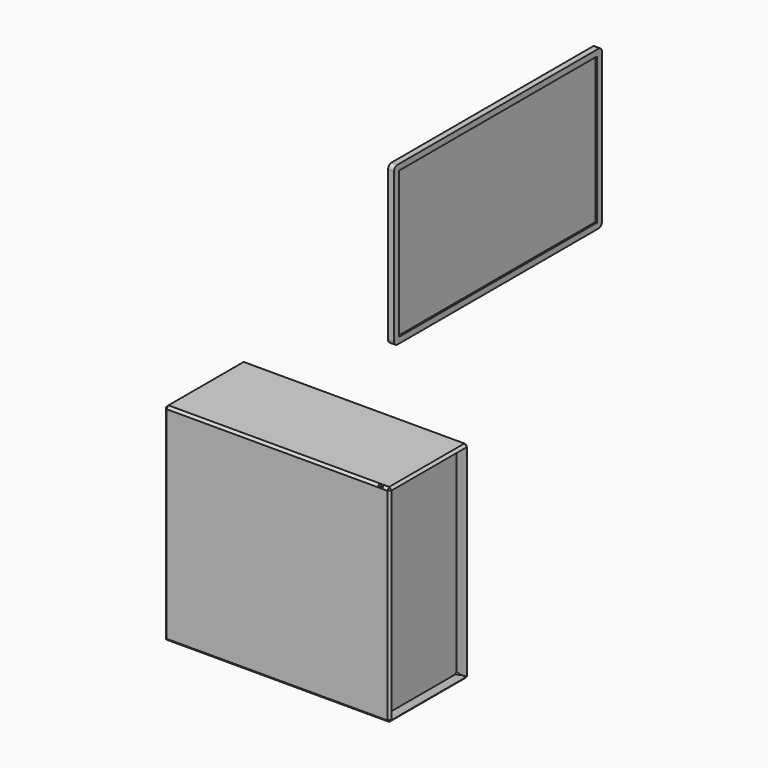
from build123d import *

# Parameters (mm, degrees)
F0_W       = 479.552
F0_H       = 210.058
F1_DEPTH   = 439.928
F2_SIZE    = 5.08
F3_R       = 5.7431434396
F3_R_2     = 17.1334316856
F3_R_3     = 7.7052414417
F3_R_4     = 3.9057479248
F3_R_5     = 6.5481874327
F3_W       = 20.5472745001
F3_H       = 7.7052414417
F3_W_2     = 3.852609545
F3_H_2     = 10.2736353874
F3_W_3     = 3.8526132703
F3_H_3     = 10.9157264233
F3_W_4     = 7.0631280541
F3_H_4     = 12.1999531984
F3_R_6     = 55.0937295808
F4_DEPTH   = 2.54
F1_FACE1_W = 199.898
F1_FACE1_H = 429.768
F5_DEPTH   = 25.4
F5_TAPER   = -10
F6_W       = 552.45
F6_H       = 336.55
F7_DEPTH   = 12.7
F8_W       = 139.7
F8_H       = 241.3
F9_DEPTH   = 15.24
F9_TAPER   = 10
F10_W      = 527.05
F10_H      = 311.15
F11_DEPTH  = 3.556
F12_R      = 8.89
F14_D      = 3.81
F14_DEPTH  = 10.16
F14_TIP    = 1.1446394792


with BuildPart() as f1:
    # F0 (on Top) → F1 (new body)
    with BuildSketch(Plane.XY):
        with Locations((239.776, -105.029)):
            Rectangle(F0_W, F0_H)
    extrude(amount=F1_DEPTH)

    # F2
    f2_edges = [f1.edges().sort_by_distance(p)[0] for p in [
        (239.776, 0, 439.928),
        (0, -105.029, 439.928),
        (239.776, -210.058, 439.928),
        (479.552, -105.029, 439.928),
        (0, -210.058, 219.964),
        (479.552, -210.058, 219.964),
        (239.776, -210.058, 0),
        (479.552, 0, 219.964),
        (479.552, -105.029, 0),
        (0, 0, 219.964),
        (239.776, 0, 0),
    ]]
    chamfer(f2_edges, length=F2_SIZE)

    # F3 (on face) → F4 (cut)
    with BuildSketch(Plane(origin=(0, 0, 0), x_dir=(0, -1, 0), z_dir=(-1, 0, 0))):
        with Locations((24.5471298695, 383.4841549397)):
            Circle(F3_R)
        with Locations((27.1155368537, 350.0948250294)):
            Circle(F3_R_2)
        with Locations((27.1155368537, 283.958286047)):
            Circle(F3_R_3)
        with Locations((27.1155368537, 243.505820632)):
            Circle(F3_R_4)
        with Locations((27.1155368537, 227.4532616138)):
            Circle(F3_R_5)
        with Locations((34.8207671195, 316.0633891821)):
            Rectangle(F3_W, F3_H)
        with Locations((55.3680416197, 284.6003770828)):
            Rectangle(F3_W_2, F3_H_2)
        with Locations((52.1575324237, 264.3741518259)):
            Rectangle(F3_W_3, F3_H_3)
        with Locations((50.5522750318, 236.1216470599)):
            Rectangle(F3_W_4, F3_H_4)
        with Locations((131.7782253027, 371.9263076782)):
            Circle(F3_R_6)
    extrude(amount=-F4_DEPTH, mode=Mode.SUBTRACT)

    # F1_face1 (on face) → F5 (cut)
    with BuildSketch(Plane(origin=(479.552, -105.029, 219.964), x_dir=(0, 1, 0), z_dir=(1, 0, 0))):
        Rectangle(F1_FACE1_W, F1_FACE1_H)
    extrude(amount=-F5_DEPTH, taper=F5_TAPER, mode=Mode.SUBTRACT)


with BuildPart() as f7:
    # F6 (on Right) → F7 (new body)
    with BuildSketch(Plane.YZ):
        with Locations((661.4052802324, 480.8611900917)):
            Rectangle(F6_W, F6_H)
    extrude(amount=F7_DEPTH)

    # F8 (on face) → F9 (join)
    with BuildSketch(Plane(origin=(0, 0, 0), x_dir=(0, -1, 0), z_dir=(-1, 0, 0))):
        with Locations((-661.4052802324, 433.2361900917)):
            Rectangle(F8_W, F8_H)
    extrude(amount=F9_DEPTH, taper=F9_TAPER)

    # F10 (on face) → F11 (cut)
    with BuildSketch(Plane.YZ.offset(12.7)):
        with Locations((661.4052802324, 480.8611900917)):
            Rectangle(F10_W, F10_H)
    extrude(amount=-F11_DEPTH, mode=Mode.SUBTRACT)

    # F12
    f12_edges = [f7.edges().sort_by_distance(p)[0] for p in [
        (6.35, 385.18028, 649.13619),
        (6.35, 937.63028, 649.13619),
        (6.35, 937.63028, 312.58619),
        (6.35, 385.18028, 312.58619),
    ]]
    fillet(f12_edges, radius=F12_R)

    # F14
    with Locations(Plane(origin=(-15.24, 0, 0), x_dir=(0, -1, 0), z_dir=(-1, 0, 0))):
        with Locations((-711.4052802324, 530.8611900917), (-711.4052802324, 430.8611900917), (-611.4052802324, 430.8611900917), (-611.4052802324, 530.8611900917)):
            Hole(F14_D / 2, depth=F14_DEPTH)
            with Locations((0, 0, -(F14_DEPTH + F14_TIP / 2))):  # 118° drill point
                Cone(0, F14_D / 2, F14_TIP, mode=Mode.SUBTRACT)


solid = Compound([f1.part, f7.part])
